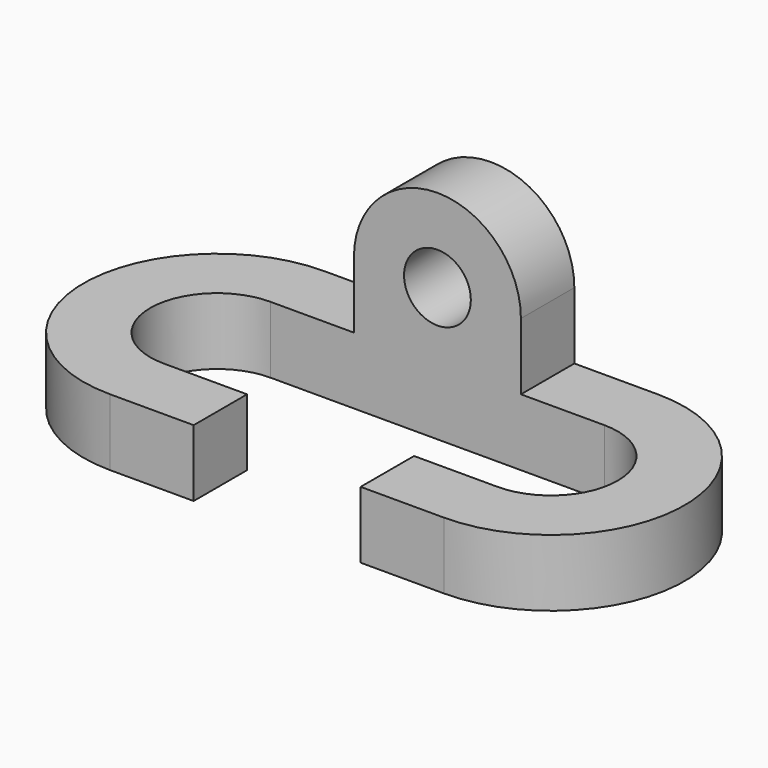
from build123d import *

# Parameters (mm, degrees)
F1_DEPTH = 12.7
F2_W     = 31.75
F2_H     = 12.7
F3_DEPTH = 12.7
F4_D     = 12.7


with BuildPart() as f1:
    # F0 (on Top) → F1 (new body)
    with BuildSketch(Plane.XY):
        with BuildLine():
            Line((43.547928, 2.756184), (27.672928, 2.756184))
            Line((27.672928, 2.756184), (27.672928, -9.943816))
            Line((27.672928, -9.943816), (43.547928, -9.943816))
            ThreePointArc((43.547928, -9.943816), (68.947928, 15.456184), (43.547928, 40.856184))
            Line((43.547928, 40.856184), (-19.952072, 40.856184))
            ThreePointArc((-19.952072, 40.856184), (-45.352072, 15.456184), (-19.952072, -9.943816))
            Line((-19.952072, -9.943816), (-4.077072, -9.943816))
            Line((-4.077072, -9.943816), (-4.077072, 2.756184))
            Line((-4.077072, 2.756184), (-19.952072, 2.756184))
            ThreePointArc((-19.952072, 2.756184), (-32.652072, 15.456184), (-19.952072, 28.156184))
            Line((-19.952072, 28.156184), (43.547928, 28.156184))
            ThreePointArc((43.547928, 28.156184), (56.247928, 15.456184), (43.547928, 2.756184))
        make_face()
    extrude(amount=F1_DEPTH)

    # F2 (on face) → F3 (join)
    with BuildSketch(Plane(origin=(0, 40.856184, 0), x_dir=(-1, 0, 0), z_dir=(0, 1, 0))):
        with Locations((-11.797928, 19.05)):
            Rectangle(F2_W, F2_H)
        with BuildLine():
            ThreePointArc((4.077072, 25.4), (-11.797928, 41.275), (-27.672928, 25.4))
            Line((-27.672928, 25.4), (4.077072, 25.4))
        make_face()
    extrude(amount=-F3_DEPTH)

    # F4 (through all)
    with Locations(Plane(origin=(0, 40.856184, 0), x_dir=(-1, 0, 0), z_dir=(0, 1, 0))):
        with Locations((-11.797928, 25.4)):
            Hole(F4_D / 2)


solid = f1.part
